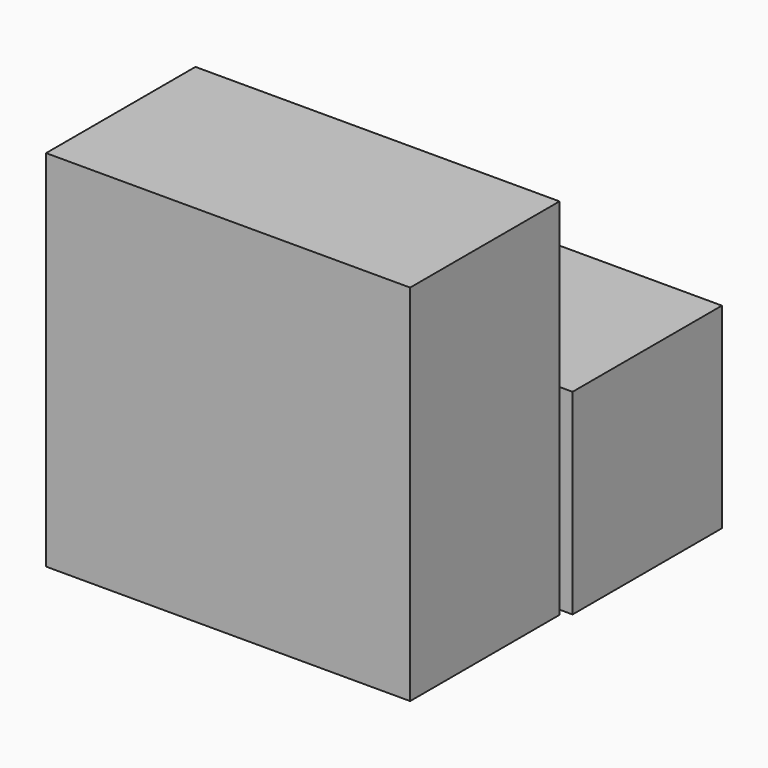
from build123d import *

# Parameters (mm, degrees)
F0_W     = 39
F0_H     = 39
F1_DEPTH = 20
F3_DEPTH = 20


with BuildPart() as f1:
    # F0 (on Front) → F1 (new body)
    with BuildSketch(Plane.XZ):
        with Locations((-0.900001, -1.994445)):
            Rectangle(F0_W, F0_H)
    extrude(amount=F1_DEPTH)

    # F2 (on Right) → F3 (join)
    with BuildSketch(Plane.YZ):
        Polygon((20, 0), (0, 0), (0, -18.648019), (0, -21), (20, -21), align=None)
    extrude(amount=F3_DEPTH)


solid = f1.part
